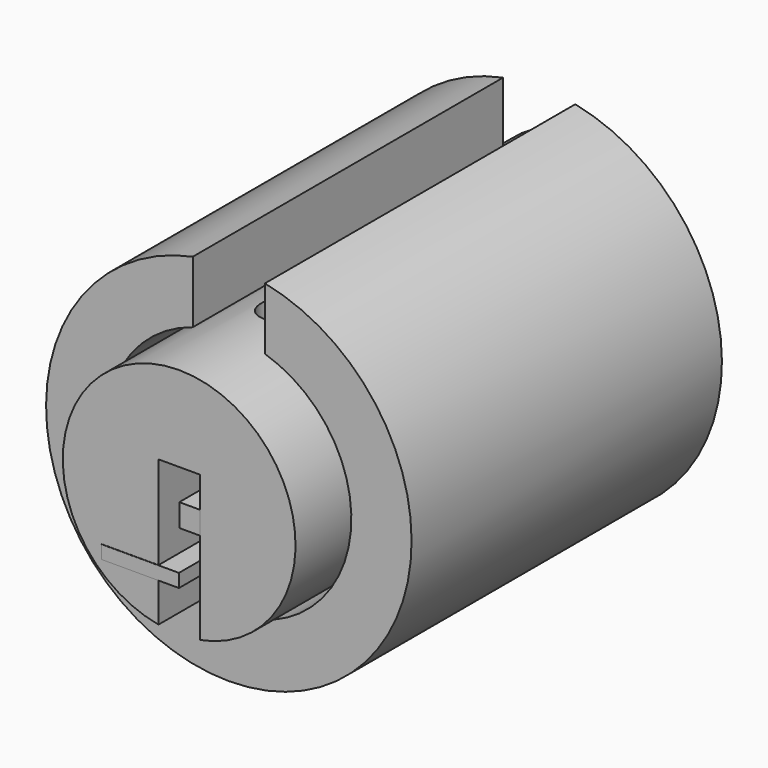
from build123d import *

# Parameters (mm, degrees)
F0_R      = 7.5
F1_DEPTH  = 16.5
F3_DEPTH  = 50
F5_DEPTH  = 50
F7_W      = 33.0214053392
F7_H      = 1.466887421
F8_DEPTH  = 5
F6_R      = 1.3990595973
F9_DEPTH  = 7
F10_R     = 1.4867916796
F11_DEPTH = 8.5
F12_R     = 1.489940195
F13_DEPTH = 12
F14_R     = 1.4831302562
F15_DEPTH = 9
F16_W     = 33
F16_H     = 0.8608698403
F17_DEPTH = 5
F18_R     = 11.7777580834
F18_R_2   = 7.8966916814
F19_DEPTH = 12.5
F21_W     = 4.6494514681
F21_H     = 27.8966799378
F22_DEPTH = 25


with BuildPart() as f1:
    # F0 (on Front) → F1 (new body, symmetric)
    with BuildSketch(Plane.XZ):
        Circle(F0_R)
    extrude(amount=F1_DEPTH, both=True)

    # F2 (on face) → F3 (cut, symmetric)
    with BuildSketch(Plane.XZ.offset(16.5)):
        with BuildLine():
            Line((-1.3351108646, -7.5), (0, -7.5))
            ThreePointArc((0, -7.5), (-0.670237085, -7.4699921185), (-1.3351108646, -7.3802086))
            Line((-1.3351108646, -7.3802086), (-1.3351108646, -7.5))
        make_face()
        with BuildLine():
            ThreePointArc((1.3351108646, -7.3802086), (0.670237085, -7.4699921185), (0, -7.5))
            Line((0, -7.5), (1.3351108646, -7.5))
            Line((1.3351108646, -7.5), (1.3351108646, -7.3802086))
        make_face()
        with BuildLine():
            ThreePointArc((-1.3351108646, -7.3802086), (-0.670237085, -7.4699921185), (0, -7.5))
            Line((0, -7.5), (0, 2))
            Line((0, 2), (-1.3351108646, 2))
            Line((-1.3351108646, 2), (-1.3351108646, -7.3802086))
        make_face()
        with BuildLine():
            Line((0, 2), (0, -7.5))
            ThreePointArc((0, -7.5), (0.670237085, -7.4699921185), (1.3351108646, -7.3802086))
            Line((1.3351108646, -7.3802086), (1.3351108646, 2))
            Line((1.3351108646, 2), (0, 2))
        make_face()
    extrude(amount=F3_DEPTH, both=True, mode=Mode.SUBTRACT)

    # F4 (on Top) → F5 (cut, symmetric)
    with BuildSketch(Plane.XY):
        with BuildLine():
            Line((0, -1.5), (0, 0))
            Line((0, 0), (0, 1.5))
            ThreePointArc((0, 1.5), (-1.5, 0), (0, -1.5))
        make_face()
        with BuildLine():
            Line((0, 1.5), (0, 0))
            Line((0, 0), (0, -1.5))
            ThreePointArc((0, -1.5), (1.0606601718, -1.0606601718), (1.5, 0))
            ThreePointArc((1.5, 0), (1.0606601718, 1.0606601718), (0, 1.5))
        make_face()
        with BuildLine():
            ThreePointArc((0, 9.5), (-1.5, 8), (0, 6.5))
            Line((0, 6.5), (0, 9.5))
        make_face()
        with BuildLine():
            Line((0, 9.5), (0, 6.5))
            ThreePointArc((0, 6.5), (1.0606601718, 6.9393398282), (1.5, 8))
            ThreePointArc((1.5, 8), (1.0606601718, 9.0606601718), (0, 9.5))
        make_face()
        with BuildLine():
            ThreePointArc((0, 5.5), (-1.5, 4), (0, 2.5))
            Line((0, 2.5), (0, 5.5))
        make_face()
        with BuildLine():
            Line((0, 5.5), (0, 2.5))
            ThreePointArc((0, 2.5), (1.0606601718, 2.9393398282), (1.5, 4))
            ThreePointArc((1.5, 4), (1.0606601718, 5.0606601718), (0, 5.5))
        make_face()
        with BuildLine():
            ThreePointArc((1.5, -8), (1.0606601718, -6.9393398282), (0, -6.5))
            Line((0, -6.5), (0, -9.5))
            ThreePointArc((0, -9.5), (1.0606601718, -9.0606601718), (1.5, -8))
        make_face()
        with BuildLine():
            Line((0, -9.5), (0, -6.5))
            ThreePointArc((0, -6.5), (-1.5, -8), (0, -9.5))
        make_face()
        with BuildLine():
            ThreePointArc((1.5, -3.7738059182), (1.0606601718, -2.7131457464), (0, -2.2738059182))
            Line((0, -2.2738059182), (0, -5.2738059182))
            ThreePointArc((0, -5.2738059182), (1.0606601718, -4.83446609), (1.5, -3.7738059182))
        make_face()
        with BuildLine():
            Line((0, -5.2738059182), (0, -2.2738059182))
            ThreePointArc((0, -2.2738059182), (-1.5, -3.7738059182), (0, -5.2738059182))
        make_face()
    extrude(amount=F5_DEPTH, both=True, mode=Mode.SUBTRACT)

    # F7 (on Right) → F8 (join)
    with BuildSketch(Plane.YZ):
        with Locations((0.0207144767, -0.7334437105)):
            Rectangle(F7_W, F7_H)
    extrude(amount=F8_DEPTH)

    # F16 (on Right) → F17 (join)
    with BuildSketch(Plane.YZ):
        with Locations((-0.0177547336, -4.4323611073)):
            Rectangle(F16_W, F16_H)
    extrude(amount=-F17_DEPTH)


with BuildPart() as f9:
    # F6 (on Top) → F9 (new body)
    with BuildSketch(Plane.XY):
        Circle(F6_R)
    extrude(amount=F9_DEPTH)


with BuildPart() as f11:
    # F10 (on Top) → F11 (new body)
    with BuildSketch(Plane.XY):
        with Locations((0.00058419, -3.7690057561)):
            Circle(F10_R)
    extrude(amount=F11_DEPTH)


with BuildPart() as f13:
    # F12 (on Top) → F13 (new body)
    with BuildSketch(Plane.XY):
        with Locations((-0.002538552, 4.0005287304)):
            Circle(F12_R)
    extrude(amount=F13_DEPTH)


with BuildPart() as f15:
    # F14 (on Top) → F15 (new body)
    with BuildSketch(Plane.XY):
        with Locations((0.0053752966, 8.0013352169)):
            Circle(F14_R)
    extrude(amount=F15_DEPTH)


with BuildPart() as f19:
    # F18 (on Front) → F19 (new body, symmetric)
    with BuildSketch(Plane.XZ):
        Circle(F18_R)
        Circle(F18_R_2, mode=Mode.SUBTRACT)
    extrude(amount=F19_DEPTH, both=True)


with BuildPart() as f22_tool:
    # F21 (on offset) → F22 (new body)
    with BuildSketch(Plane.XY.offset(7.5)):
        Rectangle(F21_W, F21_H)
    extrude(amount=F22_DEPTH)


with BuildPart() as f11_1:
    add(f11.part)

    # F22: cut by f22_tool
    add(f22_tool.part, mode=Mode.SUBTRACT)


with BuildPart() as f13_1:
    add(f13.part)

    # F22: cut by f22_tool
    add(f22_tool.part, mode=Mode.SUBTRACT)


with BuildPart() as f15_1:
    add(f15.part)

    # F22: cut by f22_tool
    add(f22_tool.part, mode=Mode.SUBTRACT)


with BuildPart() as f19_1:
    add(f19.part)

    # F22: cut by f22_tool
    add(f22_tool.part, mode=Mode.SUBTRACT)


solid = Compound([f1.part, f9.part, f11_1.part, f13_1.part, f15_1.part, f19_1.part])
